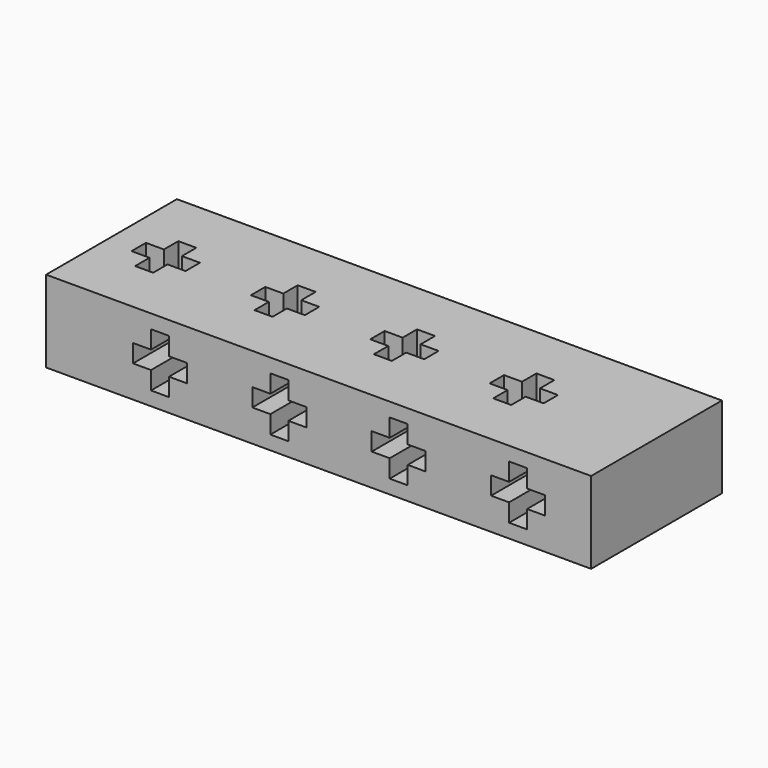
from build123d import *

# Parameters (mm, degrees)
F0_W     = 100
F0_H     = 30
F1_DEPTH = 15
F3_DEPTH = 15.001
F5_DEPTH = 30.001


with BuildPart() as f1:
    # F0 (on Top) → F1 (new body)
    with BuildSketch(Plane.XY):
        Rectangle(F0_W, F0_H)
    extrude(amount=F1_DEPTH)

    # F2 (on face) → F3 (cut, through all)
    with BuildSketch(Plane.XY.offset(15)):
        Polygon((-38.4, 4.95), (-41.7, 4.95), (-41.7, 1.65), (-45, 1.65), (-45, -1.65), (-41.7, -1.65), (-41.7, -4.95), (-38.4, -4.95), (-38.4, -1.65), (-35.1, -1.65), (-35.1, 1.65), (-38.4, 1.65), align=None)
        Polygon((-23.1, 1.65), (-23.1, -1.65), (-19.8, -1.65), (-19.8, -4.95), (-16.5, -4.95), (-16.5, -1.65), (-13.2, -1.65), (-13.2, 1.65), (-16.5, 1.65), (-16.5, 4.95), (-19.8, 4.95), (-19.8, 1.65), align=None)
        Polygon((-1.2, 1.65), (-1.2, -1.65), (2.1, -1.65), (2.1, -4.95), (5.4, -4.95), (5.4, -1.65), (8.7, -1.65), (8.7, 1.65), (5.4, 1.65), (5.4, 4.95), (2.1, 4.95), (2.1, 1.65), align=None)
        Polygon((20.7, 1.65), (20.7, -1.65), (24, -1.65), (24, -4.95), (27.3, -4.95), (27.3, -1.65), (30.6, -1.65), (30.6, 1.65), (27.3, 1.65), (27.3, 4.95), (24, 4.95), (24, 1.65), align=None)
    extrude(amount=-F3_DEPTH, mode=Mode.SUBTRACT)

    # F4 (on face) → F5 (cut, through all)
    with BuildSketch(Plane.XZ.offset(15)):
        Polygon((-27.45, 12.45), (-30.75, 12.45), (-30.75, 9.15), (-34.05, 9.15), (-34.05, 5.85), (-30.75, 5.85), (-30.75, 2.55), (-27.45, 2.55), (-27.45, 5.85), (-24.15, 5.85), (-24.15, 9.15), (-27.45, 9.15), align=None)
        Polygon((-8.85, 9.15), (-12.15, 9.15), (-12.15, 5.85), (-8.85, 5.85), (-8.85, 2.55), (-5.55, 2.55), (-5.55, 5.85), (-2.25, 5.85), (-2.25, 9.15), (-5.55, 9.15), (-5.55, 12.45), (-8.85, 12.45), align=None)
        Polygon((13.05, 9.15), (9.75, 9.15), (9.75, 5.85), (13.05, 5.85), (13.05, 2.55), (16.35, 2.55), (16.35, 5.85), (19.65, 5.85), (19.65, 9.15), (16.35, 9.15), (16.35, 12.45), (13.05, 12.45), align=None)
        Polygon((34.95, 9.15), (31.65, 9.15), (31.65, 5.85), (34.95, 5.85), (34.95, 2.55), (38.25, 2.55), (38.25, 5.85), (41.55, 5.85), (41.55, 9.15), (38.25, 9.15), (38.25, 12.45), (34.95, 12.45), align=None)
    extrude(amount=-F5_DEPTH, mode=Mode.SUBTRACT)


solid = f1.part
